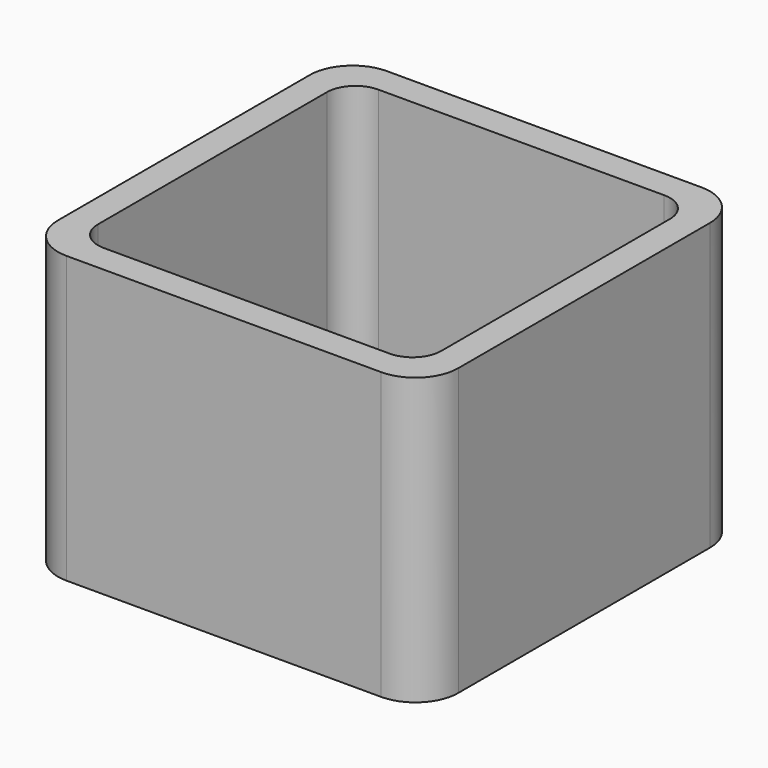
from build123d import *

# Parameters (mm, degrees)
EXTRUDE_DEPTH = 50


with BuildPart() as part:
    # Sketch → Extrude (new body)
    with BuildSketch(Plane.XY):
        with BuildLine():
            Line((-27.5, 35), (27.5, 35))
            ThreePointArc((35, 27.5), (32.803301, 32.803301), (27.5, 35))
            Line((35, 27.5), (35, -27.5))
            ThreePointArc((27.5, -35), (32.803301, -32.803301), (35, -27.5))
            Line((27.5, -35), (-27.5, -35))
            ThreePointArc((-35, -27.5), (-32.803301, -32.803301), (-27.5, -35))
            Line((-35, -27.5), (-35, 27.5))
            ThreePointArc((-27.5, 35), (-32.803301, 32.803301), (-35, 27.5))
        make_face()
        with BuildLine():
            Line((-25, 30), (25, 30))
            ThreePointArc((30, 25), (28.535534, 28.535534), (25, 30))
            Line((30, 25), (30, -25))
            ThreePointArc((25, -30), (28.535534, -28.535534), (30, -25))
            Line((25, -30), (-25, -30))
            ThreePointArc((-30, -25), (-28.535534, -28.535534), (-25, -30))
            Line((-30, -25), (-30, 25))
            ThreePointArc((-25, 30), (-28.535534, 28.535534), (-30, 25))
        make_face(mode=Mode.SUBTRACT)
    extrude(amount=EXTRUDE_DEPTH)


solid = part.part
